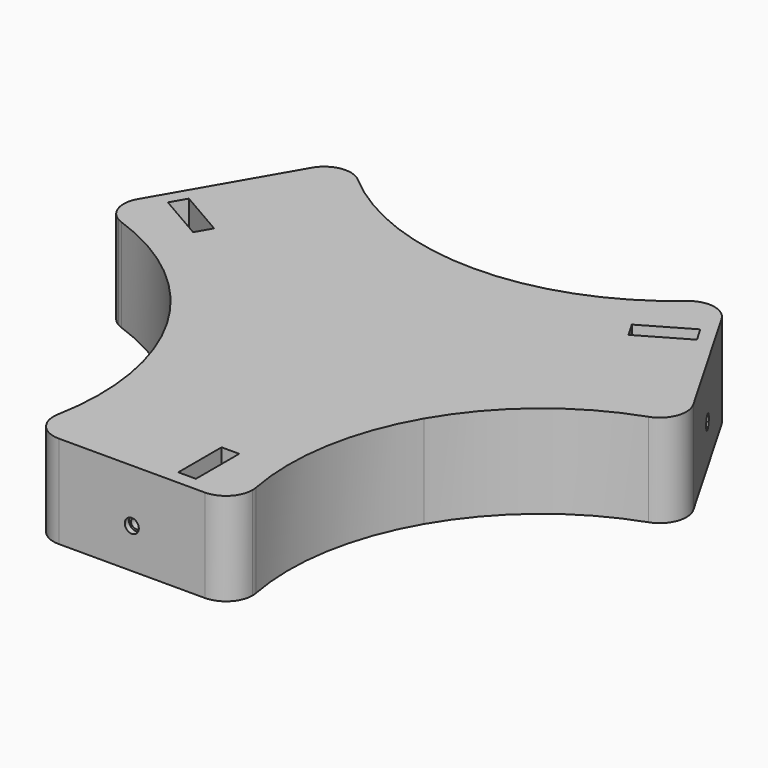
from build123d import *

# Parameters (mm, degrees)
F0_R      = 5.1
F1_DEPTH  = 35
F3_DEPTH  = 35
F4_DEPTH  = 5
F5_DEPTH  = 2.5
F6_R      = 1.9
F7_DEPTH  = 20
F6_R_2    = 2.65
F8_DEPTH  = 2
F10_DEPTH = 35
F11_COUNT = 3
F11_ANGLE = 240


with BuildPart() as f1:
    # F0 (on Top) → F1 (new body)
    with BuildSketch(Plane.XY):
        with BuildLine():
            Line((48.3891499996, -27.9374887781), (0, 0))
            Line((0, 0), (-48.3891499996, -27.9374887781))
            ThreePointArc((-48.3891499996, -27.9374887781), (-37.0005953155, -59.5433683199), (-37.3249107961, -93.1369036932))
            ThreePointArc((-37.3249107961, -93.1369036932), (-26.5643472762, -85.0438685233), (-17.5, -95))
            ThreePointArc((-17.5, -95), (-20.4289321881, -102.0710678119), (-27.5, -105))
            Line((-27.5, -105), (27.5, -105))
            ThreePointArc((27.5, -105), (19.7983455327, -88.6215583043), (37.3249107961, -93.1369036932))
            ThreePointArc((37.3249107961, -93.1369036932), (37.0005953155, -59.5433683199), (48.3891499996, -27.9374887781))
        make_face()
        with BuildLine():
            ThreePointArc((37.5, -95), (37.4561314767, -94.0643472762), (37.3249107961, -93.1369036932))
            ThreePointArc((37.3249107961, -93.1369036932), (19.7983455327, -88.6215583043), (27.5, -105))
            ThreePointArc((27.5, -105), (34.5710678119, -102.0710678119), (37.5, -95))
        make_face()
        with Locations((27.5, -95)):
            Circle(F0_R, mode=Mode.SUBTRACT)
        with BuildLine():
            ThreePointArc((-17.5, -95), (-26.5643472762, -85.0438685233), (-37.3249107961, -93.1369036932))
            ThreePointArc((-37.3249107961, -93.1369036932), (-35.2016544673, -101.3784416957), (-27.5, -105))
            ThreePointArc((-27.5, -105), (-20.4289321881, -102.0710678119), (-17.5, -95))
        make_face()
        with Locations((-27.5, -95)):
            Circle(F0_R, mode=Mode.SUBTRACT)
    extrude(amount=-F1_DEPTH)

    # F2 (on face) → F3 (cut, through all)
    with BuildSketch(Plane.XY):
        Polygon((11, -90.18), (0, -90.18), (-11, -90.18), (-11, -99.83), (11, -99.83), align=None)
    extrude(amount=-F3_DEPTH, mode=Mode.SUBTRACT)

    # F2 (on face) → F4 (join)
    with BuildSketch(Plane.XY):
        Polygon((11, -90.18), (0, -90.18), (-11, -90.18), (-11, -99.83), (11, -99.83), align=None)
    extrude(amount=-F4_DEPTH)

    # F0 (on Top) → F5 (join)
    with BuildSketch(Plane.XY):
        with Locations((-27.5, -95)):
            Circle(F0_R)
        with Locations((27.5, -95)):
            Circle(F0_R)
    extrude(amount=-F5_DEPTH)

    # F6 (on face) → F7 (cut)
    with BuildSketch(Plane.XZ.offset(105)):
        with Locations((0, -20)):
            Circle(F6_R)
    extrude(amount=-F7_DEPTH, mode=Mode.SUBTRACT)

    # F6 (on face) → F8 (cut)
    with BuildSketch(Plane.XZ.offset(105)):
        with Locations((0, -20)):
            Circle(F6_R_2)
        with Locations((0, -20)):
            Circle(F6_R, mode=Mode.SUBTRACT)
    extrude(amount=-F8_DEPTH, mode=Mode.SUBTRACT)

    # F9 (on face) → F10 (cut, through all)
    with BuildSketch(Plane(origin=(0, 0, -35), x_dir=(1, 0, 0), z_dir=(0, 0, -1))):
        Polygon((13.375, 79.43), (20.025, 79.43), (20.025, 95), (20.025, 99.83), (13.375, 99.83), (13.375, 95), align=None)
    extrude(amount=-F10_DEPTH, mode=Mode.SUBTRACT)

    # F11: F1 ×3 about axis
    f11_axis = Axis((0, 0, 0), (0, 0, 1))


with BuildPart() as f1_1:
    add(f1.part)
    for i in range(1, F11_COUNT):
        add(f1.part.rotate(f11_axis, i * F11_ANGLE / (F11_COUNT - 1)))


solid = f1_1.part
